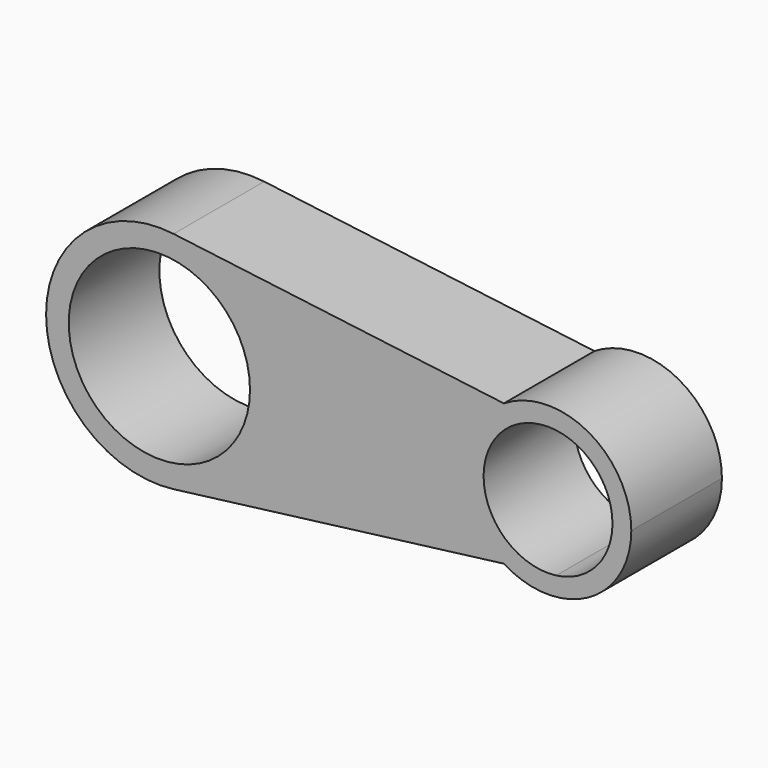
from build123d import *

# Parameters (mm, degrees)
F0_R     = 20.32
F1_DEPTH = 25.4


with BuildPart() as f1:
    # F0 (on Front) → F1 (new body)
    with BuildSketch(Plane.XZ):
        with BuildLine():
            ThreePointArc((3.191482456, -25.1986991675), (19.05549336, -16.794289887), (25.4, 0))
            ThreePointArc((25.4, 0), (19.05549336, 16.794289887), (3.191482456, 25.1986991675))
            ThreePointArc((3.191482456, 25.1986991675), (-25.4, 0), (3.191482456, -25.1986991675))
        make_face()
        Circle(F0_R, mode=Mode.SUBTRACT)
        with BuildLine():
            ThreePointArc((3.191482456, 25.1986991675), (19.05549336, 16.794289887), (25.4, 0))
            ThreePointArc((25.4, 0), (19.05549336, -16.794289887), (3.191482456, -25.1986991675))
            Line((3.191482456, -25.1986991675), (77.238430457, -15.8204557155))
            ThreePointArc((77.238430457, -15.8204557155), (68.4813106902, 0), (77.238430457, 15.8204557155))
            Line((77.238430457, 15.8204557155), (3.191482456, 25.1986991675))
        make_face()
        with BuildLine():
            ThreePointArc((105.8193823808, 0), (96.1915572628, 16.333689356), (77.238430457, 15.8204557155))
            Line((77.238430457, 15.8204557155), (88.965929824, 14.3351366427))
            ThreePointArc((88.965929824, 14.3351366427), (97.9907117184, 9.5540027185), (101.6, 0))
            ThreePointArc((101.6, 0), (97.9907117184, -9.5540027185), (88.965929824, -14.3351366427))
            Line((88.965929824, -14.3351366427), (77.238430457, -15.8204557155))
            ThreePointArc((77.238430457, -15.8204557155), (96.1915572628, -16.333689356), (105.8193823808, 0))
        make_face()
        with BuildLine():
            Line((88.965929824, 14.3351366427), (77.238430457, 15.8204557155))
            ThreePointArc((77.238430457, 15.8204557155), (68.4813106902, 0), (77.238430457, -15.8204557155))
            Line((77.238430457, -15.8204557155), (88.965929824, -14.3351366427))
            ThreePointArc((88.965929824, -14.3351366427), (72.7006930711, 0), (88.965929824, 14.3351366427))
        make_face()
    extrude(amount=F1_DEPTH)


solid = f1.part
